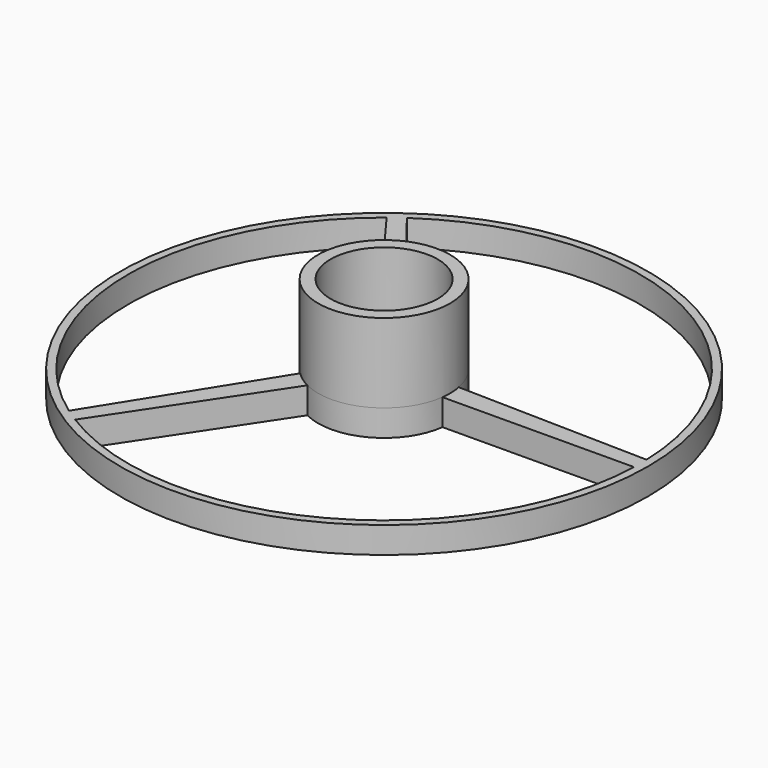
from build123d import *

# Parameters (mm, degrees)
SKETCH_R      = 100
SKETCH_R_2    = 20.3
PAD_DEPTH     = 10
SKETCH001_R   = 25
SKETCH001_R_2 = 20.3
PAD001_DEPTH  = 30


with BuildPart() as part:
    # Sketch → Pad (new body)
    with BuildSketch(Plane.XY):
        Circle(SKETCH_R)
        Circle(SKETCH_R_2, mode=Mode.SUBTRACT)
        with BuildLine():
            ThreePointArc((96.9497657449, 3.1213654066), (43.6438596811, 86.6268636864), (-55.1876984138, 79.7704076948))
            Line((-10.4473324135, 22.7124028989), (-55.1876984138, 79.7704076948))
            ThreePointArc((24.5596676208, 4.6714801032), (11.4524331511, 22.2225510443), (-10.4473324135, 22.7124028989))
            Line((24.5596676208, 4.6714801032), (96.9497657449, 3.1213654066))
        make_face(mode=Mode.SUBTRACT)
        with BuildLine():
            Line((24.7778278361, -3.3255447261), (96.9572766219, -2.8786298923))
            ThreePointArc((-51.0948365642, -82.4519112967), (45.9218644045, -85.441104684), (96.9572766219, -2.8786298923))
            Line((-11.1707596696, -22.3654673192), (-51.0948365642, -82.4519112967))
            ThreePointArc((-11.1707596696, -22.3654673192), (11.701185372, -22.0925838437), (24.7778278361, -3.3255447261))
        make_face(mode=Mode.SUBTRACT)
        with BuildLine():
            Line((-17.6635634383, -17.6917643739), (-56.0947674063, -79.1351822493))
            ThreePointArc((-60.0140125025, 76.2057629274), (-96.9691420251, -2.4465271145), (-56.0947674063, -79.1351822493))
            Line((-17.0867647821, 18.2494512049), (-60.0140125025, 76.2057629274))
            ThreePointArc((-17.0867647821, 18.2494512049), (-24.9967812363, 0.401158102), (-17.6635634383, -17.6917643739))
        make_face(mode=Mode.SUBTRACT)
    extrude(amount=PAD_DEPTH)

    # Sketch001 (on Face16 of Pad) → Pad001 (join)
    with BuildSketch(Plane.XY.offset(10)):
        Circle(SKETCH001_R)
        Circle(SKETCH001_R_2, mode=Mode.SUBTRACT)
    extrude(amount=PAD001_DEPTH)


solid = part.part
